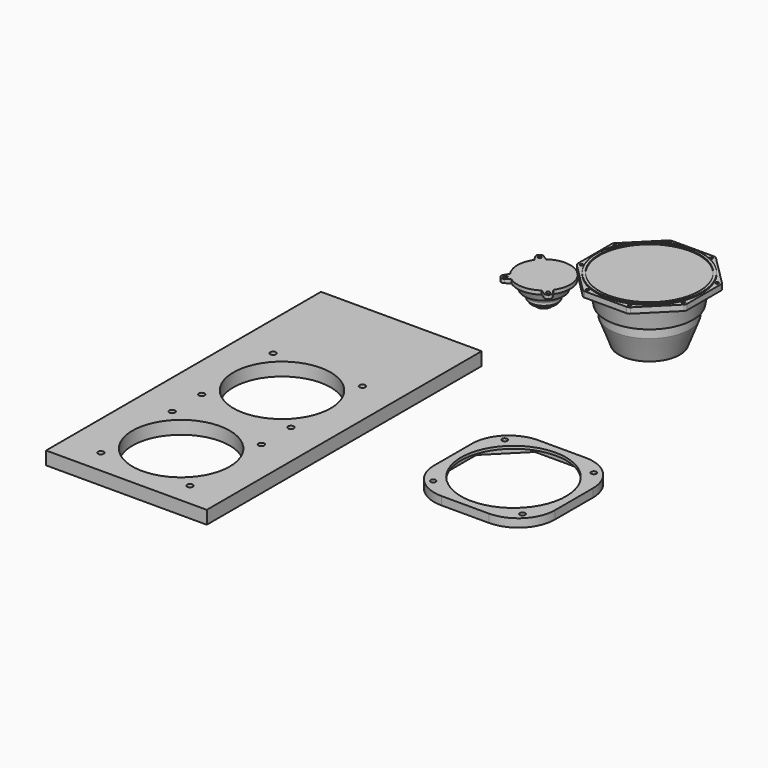
from build123d import *

# Parameters (mm, degrees)
F3_DEPTH  = 7.2
F6_R      = 2.75
F7_DEPTH  = 10.7
F8_R      = 100
F8_R_2    = 95
F9_DEPTH  = 2
F11_R     = 5
F11_R_2   = 100
F12_DEPTH = 15.7
F10_W     = 305.690619
F10_H     = 653.624151
F10_R     = 5.5
F10_R_2   = 92.5
F13_DEPTH = 25
F14_R     = 100
F15_DEPTH = 10.7


with BuildPart() as f1:
    # F0 (on Front) → F1 (revolve)
    with BuildSketch(Plane.XZ):
        Polygon((-64.87834, 0), (-51.478343, 0), (-51.478343, 49.8), (-101.728343, 49.8), (-101.728343, 42.6), (-96.228343, 42.6), (-89.194841, 26.257448), (-83.21867, 26.257448), (-79.449643, 17.5), (-77.928343, 17.5), (-77.928343, 11.693333), (-74.481677, 11.693333), (-74.481677, 7.035001), (-65.839119, 3.709015), align=None)
    revolve(axis=Axis((-51.478343, 0, 24.9), (0, 0, -1)))

    # F2 (on face) → F3 (join)
    with BuildSketch(Plane.XY.offset(49.8)):
        with BuildLine():
            ThreePointArc((-89.308941, 46.842592), (-93.5107, 47.782611), (-97.387251, 45.908908))
            ThreePointArc((-97.387251, 45.908908), (-99.260954, 42.032357), (-98.320935, 37.830598))
            Line((-98.320935, 37.830598), (-92.689312, 28.752714))
            ThreePointArc((-92.689312, 28.752714), (-87.010459, 35.532116), (-80.231057, 41.210968))
            Line((-80.231057, 41.210968), (-89.308941, 46.842592))
        make_face()
        with BuildLine():
            ThreePointArc((-94.880557, 39.159574), (-95.759237, 41.280894), (-94.880557, 43.402214))
            ThreePointArc((-94.880557, 43.402214), (-92.759237, 44.280894), (-90.637917, 43.402214))
            Line((-90.637917, 43.402214), (-89.577256, 42.341554))
            ThreePointArc((-89.577256, 42.341554), (-88.698577, 40.220234), (-89.577256, 38.098913))
            ThreePointArc((-89.577256, 38.098913), (-91.698577, 37.220234), (-93.819897, 38.098913))
            Line((-93.819897, 38.098913), (-94.880557, 39.159574))
        make_face(mode=Mode.SUBTRACT)
        with BuildLine():
            Line((-10.267375, 28.752714), (-4.635751, 37.830598))
            ThreePointArc((-4.635751, 37.830598), (-3.695732, 42.032357), (-5.569435, 45.908908))
            ThreePointArc((-5.569435, 45.908908), (-9.445987, 47.782611), (-13.647745, 46.842592))
            Line((-13.647745, 46.842592), (-22.725629, 41.210968))
            ThreePointArc((-22.725629, 41.210968), (-15.946227, 35.532116), (-10.267375, 28.752714))
        make_face()
        with BuildLine():
            ThreePointArc((-12.31877, 43.402214), (-10.197449, 44.280894), (-8.076129, 43.402214))
            ThreePointArc((-8.076129, 43.402214), (-7.197449, 41.280894), (-8.076129, 39.159574))
            Line((-8.076129, 39.159574), (-9.136789, 38.098913))
            ThreePointArc((-9.136789, 38.098913), (-11.258109, 37.220234), (-13.37943, 38.098913))
            ThreePointArc((-13.37943, 38.098913), (-14.258109, 40.220234), (-13.37943, 42.341554))
            Line((-13.37943, 42.341554), (-12.31877, 43.402214))
        make_face(mode=Mode.SUBTRACT)
        with BuildLine():
            ThreePointArc((-97.387251, -45.908908), (-93.5107, -47.782611), (-89.308941, -46.842592))
            Line((-89.308941, -46.842592), (-80.231057, -41.210968))
            ThreePointArc((-80.231057, -41.210968), (-87.010459, -35.532116), (-92.689312, -28.752714))
            Line((-92.689312, -28.752714), (-98.320935, -37.830598))
            ThreePointArc((-98.320935, -37.830598), (-99.260954, -42.032357), (-97.387251, -45.908908))
        make_face()
        with BuildLine():
            ThreePointArc((-94.880557, -43.402214), (-95.759237, -41.280894), (-94.880557, -39.159574))
            Line((-94.880557, -39.159574), (-93.819897, -38.098913))
            ThreePointArc((-93.819897, -38.098913), (-91.698577, -37.220234), (-89.577256, -38.098913))
            ThreePointArc((-89.577256, -38.098913), (-88.698577, -40.220234), (-89.577256, -42.341554))
            Line((-89.577256, -42.341554), (-90.637917, -43.402214))
            ThreePointArc((-90.637917, -43.402214), (-92.759237, -44.280894), (-94.880557, -43.402214))
        make_face(mode=Mode.SUBTRACT)
        with BuildLine():
            ThreePointArc((-5.569435, -45.908908), (-3.695732, -42.032357), (-4.635751, -37.830598))
            Line((-4.635751, -37.830598), (-10.267375, -28.752714))
            ThreePointArc((-10.267375, -28.752714), (-15.946227, -35.532116), (-22.725629, -41.210968))
            Line((-22.725629, -41.210968), (-13.647745, -46.842592))
            ThreePointArc((-13.647745, -46.842592), (-9.445987, -47.782611), (-5.569435, -45.908908))
        make_face()
        with BuildLine():
            Line((-9.136789, -38.098913), (-8.076129, -39.159574))
            ThreePointArc((-8.076129, -39.159574), (-7.197449, -41.280894), (-8.076129, -43.402214))
            ThreePointArc((-8.076129, -43.402214), (-10.197449, -44.280894), (-12.31877, -43.402214))
            Line((-12.31877, -43.402214), (-13.37943, -42.341554))
            ThreePointArc((-13.37943, -42.341554), (-14.258109, -40.220234), (-13.37943, -38.098913))
            ThreePointArc((-13.37943, -38.098913), (-11.258109, -37.220234), (-9.136789, -38.098913))
        make_face(mode=Mode.SUBTRACT)
    extrude(amount=-F3_DEPTH)


with BuildPart() as f5:
    # F4 (on Front) → F5 (revolve)
    with BuildSketch(Plane.XZ):
        Polygon((91.27568, 0), (149.180445, 0), (149.180445, 106), (58.680445, 106), (66.012418, 66.877338), (73.180445, 66.877338), (73.180445, 47.870131), align=None)
    revolve(axis=Axis((149.180445, 0, 53), (0, 0, -1)))

    # F6 (on face) → F7 (join)
    with BuildSketch(Plane.XY.offset(106)):
        with BuildLine():
            Line((45.230445, 39.950898), (45.230445, 0))
            Line((45.230445, 0), (45.230445, -39.950898))
            ThreePointArc((45.230445, -39.950898), (45.801348, -42.821024), (47.427144, -45.254199))
            Line((47.427144, -45.254199), (103.926246, -101.753301))
            ThreePointArc((103.926246, -101.753301), (106.359421, -103.379096), (109.229547, -103.95))
            Line((109.229547, -103.95), (149.180445, -103.95))
            Line((149.180445, -103.95), (189.131343, -103.95))
            ThreePointArc((189.131343, -103.95), (192.001469, -103.379096), (194.434644, -101.753301))
            Line((194.434644, -101.753301), (250.933746, -45.254199))
            ThreePointArc((250.933746, -45.254199), (252.559541, -42.821024), (253.130445, -39.950898))
            Line((253.130445, -39.950898), (253.130445, 0))
            Line((253.130445, 0), (253.130445, 39.950898))
            ThreePointArc((253.130445, 39.950898), (252.559541, 42.821024), (250.933746, 45.254199))
            Line((250.933746, 45.254199), (194.434644, 101.753301))
            ThreePointArc((194.434644, 101.753301), (192.001469, 103.379096), (189.131343, 103.95))
            Line((189.131343, 103.95), (149.180445, 103.95))
            Line((149.180445, 103.95), (109.229547, 103.95))
            ThreePointArc((109.229547, 103.95), (106.359421, 103.379096), (103.926246, 101.753301))
            Line((103.926246, 101.753301), (47.427144, 45.254199))
            ThreePointArc((47.427144, 45.254199), (45.801348, 42.821024), (45.230445, 39.950898))
        make_face()
        with Locations((108.998684, -97.007351)):
            Circle(F6_R, mode=Mode.SUBTRACT)
        with Locations((52.173094, -40.18176)):
            Circle(F6_R, mode=Mode.SUBTRACT)
        with Locations((189.362205, -97.007351)):
            Circle(F6_R, mode=Mode.SUBTRACT)
        with Locations((246.187796, -40.18176)):
            Circle(F6_R, mode=Mode.SUBTRACT)
        with Locations((52.173094, 40.18176)):
            Circle(F6_R, mode=Mode.SUBTRACT)
        with Locations((108.998684, 97.007351)):
            Circle(F6_R, mode=Mode.SUBTRACT)
        with Locations((246.187796, 40.18176)):
            Circle(F6_R, mode=Mode.SUBTRACT)
        with Locations((189.362205, 97.007351)):
            Circle(F6_R, mode=Mode.SUBTRACT)
    extrude(amount=F7_DEPTH)

    # F8 (on face) → F9 (join)
    with BuildSketch(Plane.XY.offset(116.7)):
        with Locations((149.180445, 0)):
            Circle(F8_R)
        with Locations((149.180445, 0)):
            Circle(F8_R_2, mode=Mode.SUBTRACT)
    extrude(amount=F9_DEPTH)


with BuildPart() as f12:
    # F11 (on Top) → F12 (new body)
    with BuildSketch(Plane.XY):
        with BuildLine():
            Line((323.379057, -369.443322), (233.379057, -369.443322))
            ThreePointArc((233.379057, -369.443322), (183.881582, -389.945847), (163.379057, -439.443322))
            Line((163.379057, -439.443322), (163.379057, -529.443322))
            ThreePointArc((163.379057, -529.443322), (183.881582, -578.940797), (233.379057, -599.443322))
            Line((233.379057, -599.443322), (323.379057, -599.443322))
            ThreePointArc((323.379057, -599.443322), (372.876532, -578.940797), (393.379057, -529.443322))
            Line((393.379057, -529.443322), (393.379057, -439.443322))
            ThreePointArc((393.379057, -439.443322), (372.876532, -389.945847), (323.379057, -369.443322))
        make_face()
        with Locations((193.526243, -569.296136)):
            Circle(F11_R, mode=Mode.SUBTRACT)
        with Locations((363.231871, -569.296136)):
            Circle(F11_R, mode=Mode.SUBTRACT)
        with Locations((193.526243, -399.590508)):
            Circle(F11_R, mode=Mode.SUBTRACT)
        with Locations((278.379057, -484.443322)):
            Circle(F11_R_2, mode=Mode.SUBTRACT)
        with Locations((363.231871, -399.590508)):
            Circle(F11_R, mode=Mode.SUBTRACT)
    extrude(amount=F12_DEPTH)

    # F14 (on Top) → F15 (cut)
    with BuildSketch(Plane.XY):
        with BuildLine():
            Line((172.429057, -443.663997), (172.429057, -484.443322))
            Line((172.429057, -484.443322), (172.429057, -525.222647))
            ThreePointArc((172.429057, -525.222647), (172.999961, -528.092773), (174.625756, -530.525948))
            Line((174.625756, -530.525948), (232.296431, -588.196623))
            ThreePointArc((232.296431, -588.196623), (234.729606, -589.822418), (237.599732, -590.393322))
            Line((237.599732, -590.393322), (278.379057, -590.393322))
            Line((278.379057, -590.393322), (319.158382, -590.393322))
            ThreePointArc((319.158382, -590.393322), (322.028508, -589.822418), (324.461683, -588.196623))
            Line((324.461683, -588.196623), (382.132358, -530.525948))
            ThreePointArc((382.132358, -530.525948), (383.758154, -528.092773), (384.329057, -525.222647))
            Line((384.329057, -525.222647), (384.329057, -484.443322))
            Line((384.329057, -484.443322), (384.329057, -443.663997))
            ThreePointArc((384.329057, -443.663997), (383.758154, -440.793871), (382.132358, -438.360696))
            Line((382.132358, -438.360696), (324.461683, -380.690021))
            ThreePointArc((324.461683, -380.690021), (322.028508, -379.064225), (319.158382, -378.493322))
            Line((319.158382, -378.493322), (278.379057, -378.493322))
            Line((278.379057, -378.493322), (237.599732, -378.493322))
            ThreePointArc((237.599732, -378.493322), (234.729606, -379.064225), (232.296431, -380.690021))
            Line((232.296431, -380.690021), (174.625756, -438.360696))
            ThreePointArc((174.625756, -438.360696), (172.999961, -440.793871), (172.429057, -443.663997))
        make_face()
        with Locations((278.379057, -484.443322)):
            Circle(F14_R, mode=Mode.SUBTRACT)
    extrude(amount=F15_DEPTH, mode=Mode.SUBTRACT)


with BuildPart() as f13:
    # F10 (on Top) → F13 (new body)
    with BuildSketch(Plane.XY):
        with Locations((-152.845309, -538.98619)):
            Rectangle(F10_W, F10_H)
        with Locations((-237.698123, -820.651079)):
            Circle(F10_R, mode=Mode.SUBTRACT)
        with Locations((-237.698123, -650.945451)):
            Circle(F10_R, mode=Mode.SUBTRACT)
        with Locations((-237.698123, -580.651079)):
            Circle(F10_R, mode=Mode.SUBTRACT)
        with Locations((-152.845309, -735.798265)):
            Circle(F10_R_2, mode=Mode.SUBTRACT)
        with Locations((-67.992496, -820.651079)):
            Circle(F10_R, mode=Mode.SUBTRACT)
        with Locations((-67.992496, -650.945451)):
            Circle(F10_R, mode=Mode.SUBTRACT)
        with Locations((-67.992496, -580.651079)):
            Circle(F10_R, mode=Mode.SUBTRACT)
        with Locations((-237.698123, -410.945451)):
            Circle(F10_R, mode=Mode.SUBTRACT)
        with Locations((-152.845309, -495.798265)):
            Circle(F10_R_2, mode=Mode.SUBTRACT)
        with Locations((-67.992496, -410.945451)):
            Circle(F10_R, mode=Mode.SUBTRACT)
    extrude(amount=F13_DEPTH)


solid = Compound([f1.part, f5.part, f12.part, f13.part])
